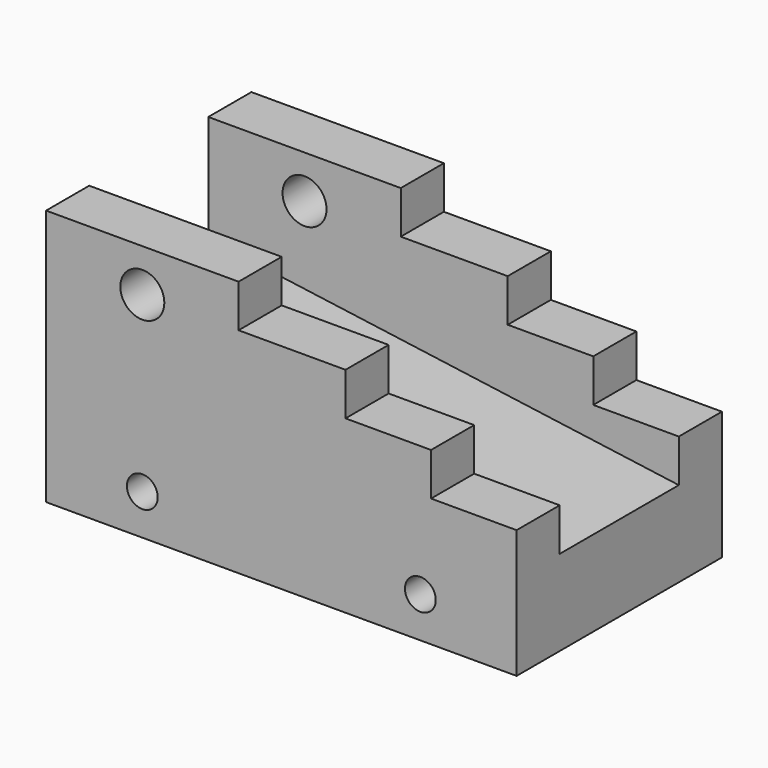
from build123d import *

# Parameters (mm, degrees)
F0_R     = 2.286
F0_R_2   = 3.2639
F1_DEPTH = 38.1
F6_DEPTH = 22.098


with BuildPart() as f1:
    # F0 (on Front) → F1 (new body)
    with BuildSketch(Plane.XZ):
        Polygon((-28.2726228424, 0), (41.5773771576, 0), (41.5773771576, 19.05), (28.8773771576, 19.05), (28.8773771576, 25.4), (16.1773771576, 25.4), (16.1773771576, 31.75), (0.3023771576, 31.75), (0.3023771576, 38.1), (-28.2726228424, 38.1), align=None)
        with Locations((-13.9851228424, 6.0150027275)):
            Circle(F0_R, mode=Mode.SUBTRACT)
        with Locations((27.2898771576, 6.0150027275)):
            Circle(F0_R, mode=Mode.SUBTRACT)
        with Locations((-13.9851228424, 31.75)):
            Circle(F0_R_2, mode=Mode.SUBTRACT)
    extrude(amount=F1_DEPTH)

    # F5 (on offset) → F6 (cut)
    with BuildSketch(Plane.XZ.offset(30.099)):
        Polygon((-28.2726228424, 38.1), (-28.2726228424, 22.225), (41.5773771576, 12.7), (41.5773771576, 38.1), align=None)
    extrude(amount=-F6_DEPTH, mode=Mode.SUBTRACT)


solid = f1.part
